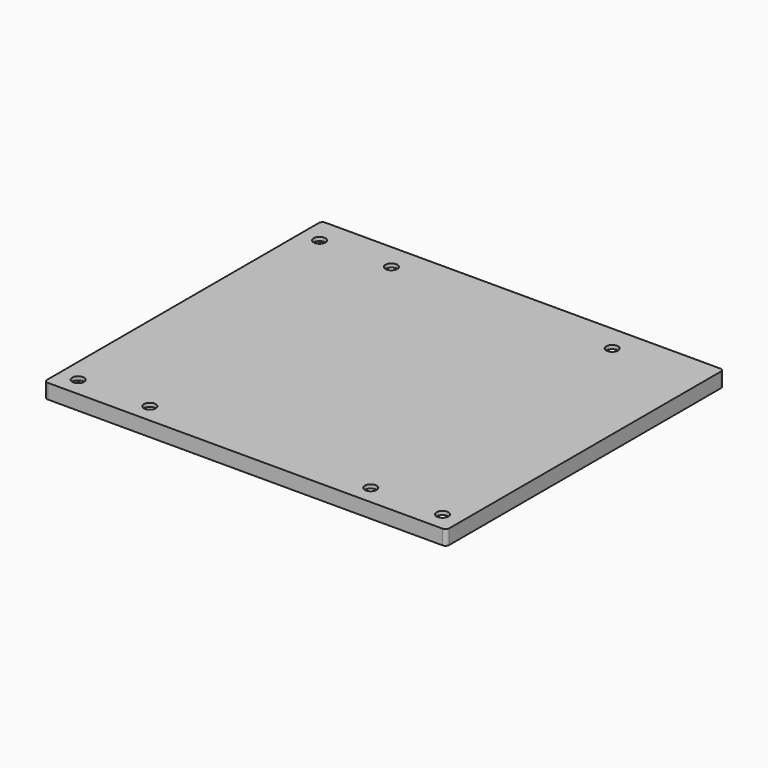
from build123d import *

# Parameters (mm, degrees)
PAD015_DEPTH    = 1
PAD016_DEPTH    = 3
SKETCH029_R     = 1.6
POCKET012_DEPTH = 5


with BuildPart() as part:
    # Sketch027 → Pad015 (new body)
    with BuildSketch(Plane.XY):
        with BuildLine():
            Line((-54.625, 46.125), (-54.625, -46.125))
            ThreePointArc((-54.625, -46.125), (-54.332107, -46.832107), (-53.625, -47.125))
            Line((-53.625, -47.125), (53.625, -47.125))
            ThreePointArc((53.625, -47.125), (54.332107, -46.832107), (54.625, -46.125))
            Line((54.625, -46.125), (54.625, 46.125))
            ThreePointArc((54.625, 46.125), (54.332107, 46.832107), (53.625, 47.125))
            Line((53.625, 47.125), (-53.625, 47.125))
            ThreePointArc((-53.625, 47.125), (-54.332107, 46.832107), (-54.625, 46.125))
        make_face()
    extrude(amount=PAD015_DEPTH)

    # Sketch028 → Pad016 (join)
    with BuildSketch(Plane.XY):
        with BuildLine():
            Line((-54.625, 46.125), (-54.625, -46.125))
            ThreePointArc((-54.625, -46.125), (-54.332107, -46.832107), (-53.625, -47.125))
            Line((-53.625, -47.125), (53.625, -47.125))
            ThreePointArc((53.625, -47.125), (54.332107, -46.832107), (54.625, -46.125))
            Line((54.625, -46.125), (54.625, 46.125))
            ThreePointArc((54.625, 46.125), (54.332107, 46.832107), (53.625, 47.125))
            Line((53.625, 47.125), (-53.625, 47.125))
            ThreePointArc((-53.625, 47.125), (-54.332107, 46.832107), (-54.625, 46.125))
        make_face()
        with BuildLine():
            Line((-53.625, 45.125), (-53.625, -45.125))
            ThreePointArc((-53.625, -45.125), (-53.332107, -45.832107), (-52.625, -46.125))
            Line((-52.625, -46.125), (52.625, -46.125))
            ThreePointArc((52.625, -46.125), (53.332107, -45.832107), (53.625, -45.125))
            Line((53.625, -45.125), (53.625, 45.125))
            ThreePointArc((53.625, 45.125), (53.332107, 45.832107), (52.625, 46.125))
            Line((52.625, 46.125), (-52.625, 46.125))
            ThreePointArc((-52.625, 46.125), (-53.332107, 45.832107), (-53.625, 45.125))
        make_face(mode=Mode.SUBTRACT)
    extrude(amount=-PAD016_DEPTH)

    # Sketch029 → Pocket012 (cut)
    with BuildSketch(Plane.XY):
        with Locations((-49.5, 40)):
            Circle(SKETCH029_R)
        with Locations((-30, 40)):
            Circle(SKETCH029_R)
        with Locations((30, 40)):
            Circle(SKETCH029_R)
        with Locations((-30, -42)):
            Circle(SKETCH029_R)
        with Locations((-49.5, -42)):
            Circle(SKETCH029_R)
        with Locations((30, -42)):
            Circle(SKETCH029_R)
        with Locations((49.5, -42)):
            Circle(SKETCH029_R)
    extrude(amount=POCKET012_DEPTH, mode=Mode.SUBTRACT)


with BuildPart() as part_1:
    # Body007 placement: moved
    add(part.part.moved(Location((0, 0, 36.1))))


solid = part_1.part
